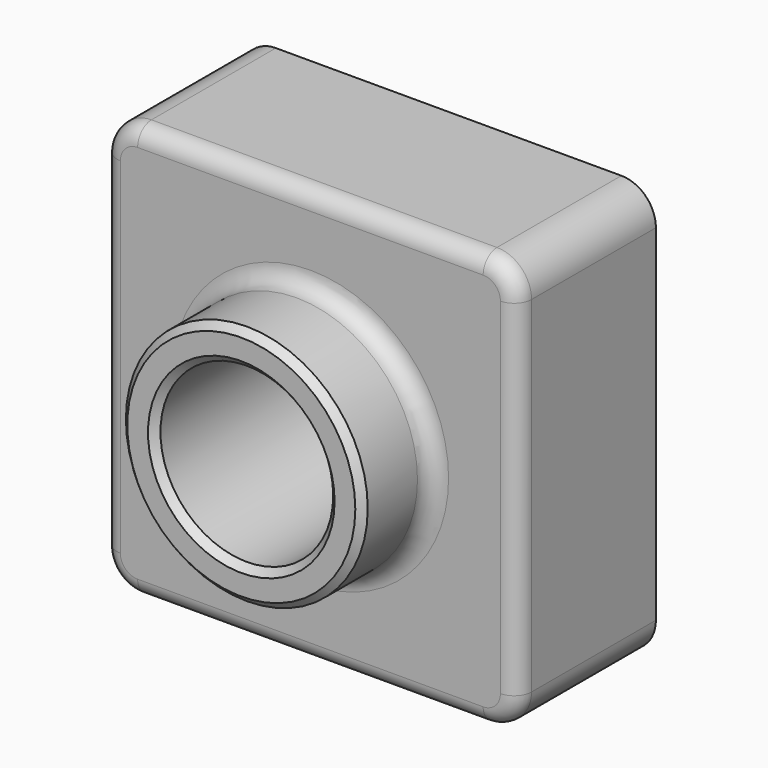
from build123d import *

# Parameters (mm, degrees)
F0_W     = 120
F0_H     = 120
F1_DEPTH = 50
F2_R     = 35
F3_DEPTH = 25
F4_R     = 25
F5_DEPTH = 75.001
F6_R     = 10
F7_R     = 5
F8_SIZE  = 2
F9_T     = -2


with BuildPart() as f1:
    # F0 (on Front) → F1 (new body)
    with BuildSketch(Plane.XZ):
        Rectangle(F0_W, F0_H)
    extrude(amount=F1_DEPTH)

    # F2 (on face) → F3 (join)
    with BuildSketch(Plane.XZ.offset(50)):
        Circle(F2_R)
    extrude(amount=F3_DEPTH)

    # F4 (on face) → F5 (cut, through all)
    with BuildSketch(Plane.XZ.offset(75)):
        Circle(F4_R)
    extrude(amount=-F5_DEPTH, mode=Mode.SUBTRACT)

    # F6
    f6_edges = [f1.edges().sort_by_distance(p)[0] for p in [
        (-60, -25, 60),
        (60, -25, 60),
        (-60, -25, -60),
        (60, -25, -60),
    ]]
    fillet(f6_edges, radius=F6_R)

    # F7
    f7_edges = [f1.edges().sort_by_distance(p)[0] for p in [
        (60, -50, 0),
        (57.071068, -50, -57.071068),
        (57.071068, -50, 57.071068),
        (0, -50, -60),
        (0, -50, 60),
        (-57.071068, -50, -57.071068),
        (-57.071068, -50, 57.071068),
        (-60, -50, 0),
        (-35, -50, 0),
    ]]
    fillet(f7_edges, radius=F7_R)

    # F8
    f8_edges = [f1.edges().sort_by_distance(p)[0] for p in [
        (-35, -75, 0),
        (-25, -75, 0),
    ]]
    chamfer(f8_edges, length=F8_SIZE)

    # F9
    f9_openings = [f1.faces().sort_by_distance(p)[0] for p in [
        (58.302944, 0, 0),
    ]]
    offset(amount=F9_T, openings=f9_openings)


solid = f1.part
